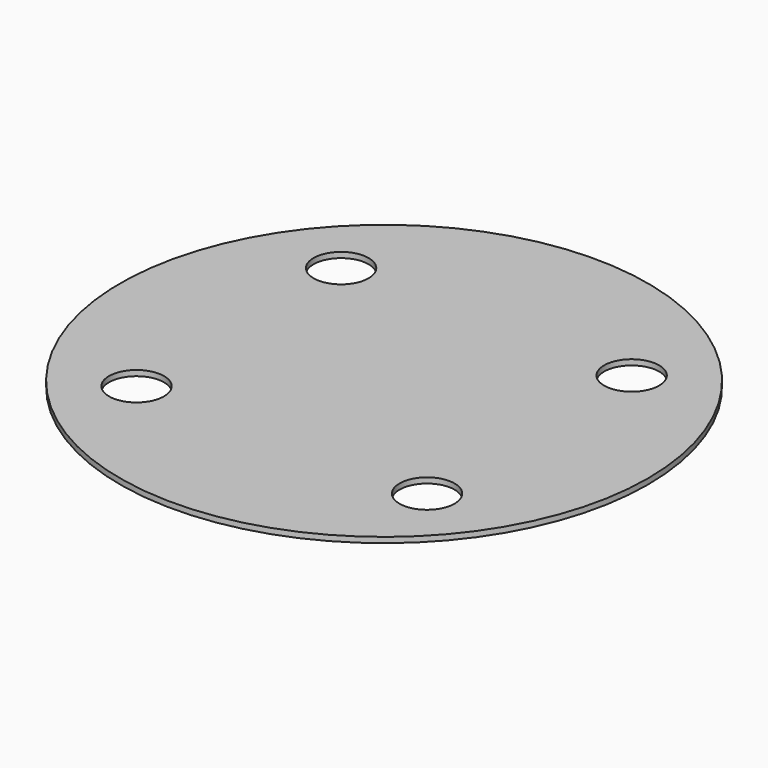
from build123d import *

# Parameters (mm, degrees)
F0_R     = 609.6
F1_DEPTH = 12.7
F3_D     = 127


with BuildPart() as f1:
    # F0 (on Top) → F1 (new body)
    with BuildSketch(Plane.XY):
        Circle(F0_R)
    extrude(amount=F1_DEPTH)

    # F3 (through all)
    with Locations(Plane.XY.offset(12.7)):
        with Locations((335.509866, 295.30862), (335.509866, -295.30862), (-335.509866, -295.30862), (-335.509866, 295.30862)):
            Hole(F3_D / 2)


solid = f1.part
